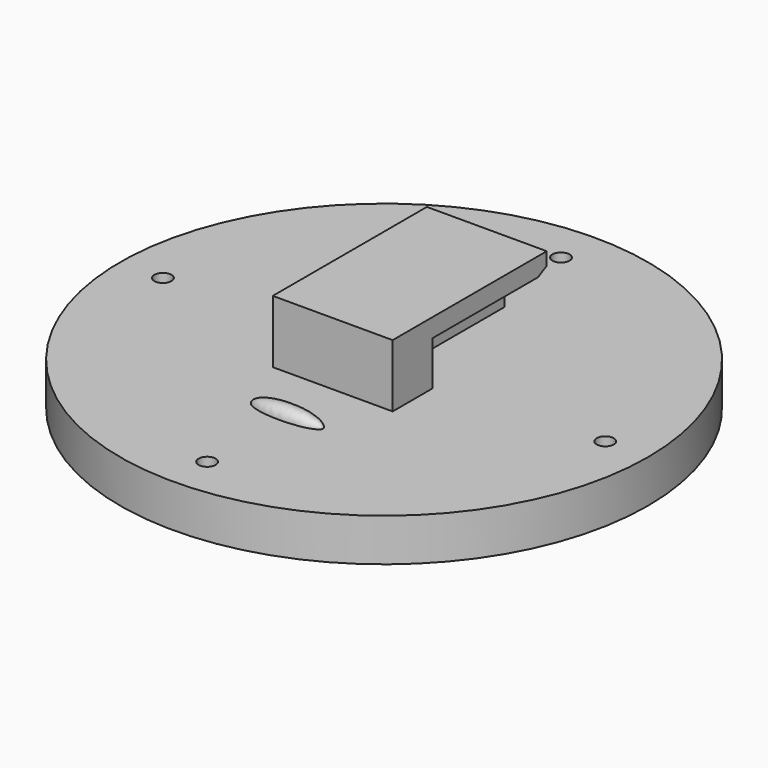
from build123d import *

# Parameters (mm, degrees)
F0_R     = 18.5
F0_R_2   = 0.6
F1_DEPTH = 3
F2_W     = 8.4
F2_H     = 13.5
F3_DEPTH = 4.4
F5_DEPTH = 2.95
F7_DEPTH = 2.95


with BuildPart() as f1:
    # F0 (on Top) → F1 (new body)
    with BuildSketch(Plane.XY):
        Circle(F0_R)
        with Locations((0, -15.5)):
            Circle(F0_R_2, mode=Mode.SUBTRACT)
        with Locations((-15.5, 0)):
            Circle(F0_R_2, mode=Mode.SUBTRACT)
        with Locations((15.5, 0)):
            Circle(F0_R_2, mode=Mode.SUBTRACT)
        with Locations((0, 15.5)):
            Circle(F0_R_2, mode=Mode.SUBTRACT)
    extrude(amount=F1_DEPTH)

    # F2 (on face) → F3 (join)
    with BuildSketch(Plane.XY.offset(3)):
        with Locations((0, 2.25)):
            Rectangle(F2_W, F2_H)
    extrude(amount=F3_DEPTH)

    # F4 (on face) → F5 (cut)
    with BuildSketch(Plane(origin=(-4.2, 0, 0), x_dir=(0, -1, 0), z_dir=(-1, 0, 0))):
        Polygon((-9, 3), (1, 3), (1, 6.1), (-8.229371, 6.1), (-9, 6.503245), align=None)
    extrude(amount=-F5_DEPTH, mode=Mode.SUBTRACT)

    # F6 (on face) → F7 (cut)
    with BuildSketch(Plane.YZ.offset(4.2)):
        Polygon((-0.99, 3), (9, 3), (9, 6.494885), (8.228009, 6.1), (-0.219371, 6.1), (-0.99, 6.1), align=None)
    extrude(amount=-F7_DEPTH, mode=Mode.SUBTRACT)

    # F8 (on face) → F9 (revolve)
    with BuildSketch(Plane.XY.offset(3)):
        with BuildLine():
            Line((2.508028, -8.467954), (-2.508028, -8.467954))
            add(Edge.make_bspline(
                [(-2.508028, -8.467954), (-2.508028, -9.163152), (0, -9.163152), (2.508028, -9.163152), (2.508028, -8.467954)],
                knots=[0, 0, 0, 1.570796, 1.570796, 3.141593, 3.141593, 3.141593], degree=2, weights=[1, 0.707107, 1, 0.707107, 1]))
        make_face()
    revolve(axis=Axis((0, -8.467954, 3), (1, 0, 0)))


solid = f1.part
